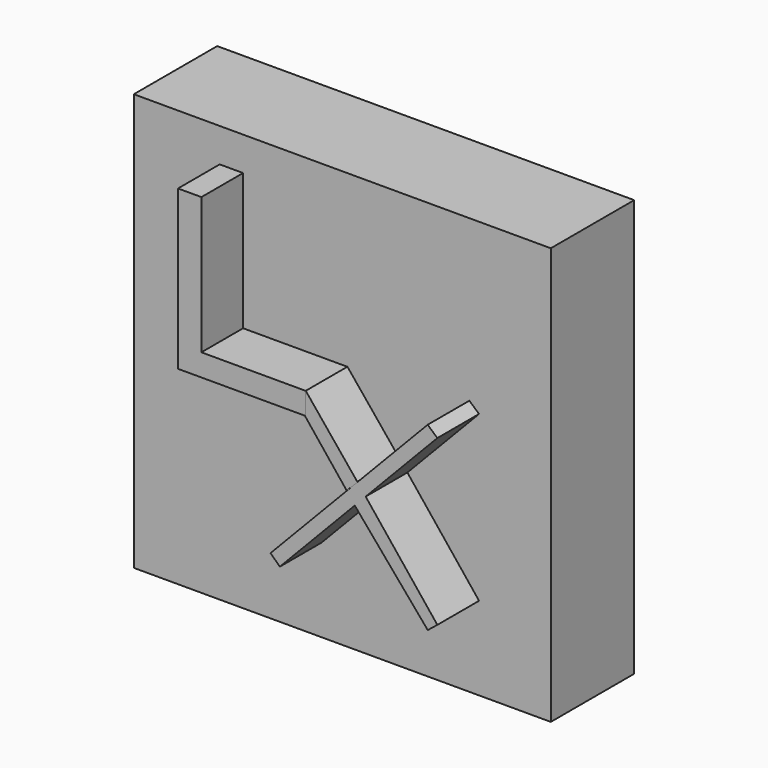
from build123d import *

# Parameters (mm, degrees)
F0_W     = 39.99992
F0_H     = 39.99992
F1_DEPTH = 10
F4_DEPTH = 5
F5_DEPTH = 5
F7_DEPTH = 5


with BuildPart() as f1:
    # F0 (on Front) → F1 (new body)
    with BuildSketch(Plane.XZ):
        with Locations((-19.99996, -4.587722)):
            Rectangle(F0_W, F0_H)
    extrude(amount=F1_DEPTH)

    # F2 (on face) → F4 (join)
    with BuildSketch(Plane.XZ.offset(10)):
        Polygon((-29.516464, 12.166237), (-31.761777, 12.166237), (-31.761777, -3.065485), (-19.50358, -3.065485), (-19.50358, -0.941539), (-29.516464, -0.941539), align=None)
    extrude(amount=F4_DEPTH)

    # F3 (on face) → F5 (join)
    with BuildSketch(Plane.XZ.offset(10)):
        Polygon((-7.812001, 0), (-14.53975, -7.024959), (-13.758637, -8.00135), (-6.881277, -0.820171), align=None)
        Polygon((-13.758637, -8.00135), (-14.53975, -7.024959), (-15.610237, -8.142737), (-14.803926, -9.092817), align=None)
        Polygon((-6.881277, -16.59805), (-13.758637, -8.00135), (-14.803926, -9.092817), (-7.80634, -17.3381), align=None)
        Polygon((-14.803926, -9.092817), (-15.610237, -8.142737), (-22.886798, -15.740753), (-21.991629, -16.59805), align=None)
    extrude(amount=F5_DEPTH)


with BuildPart() as f7:
    # F6 (on face) → F7 (new body)
    with BuildSketch(Plane.XZ.offset(10)):
        Polygon((-14.506066, -7.001007), (-14.566511, -7.001007), (-19.507125, -0.934796), (-19.507809, -3.076034), (-19.586561, -3.076034), (-15.576883, -8.088133), align=None)
    extrude(amount=F7_DEPTH)


solid = Compound([f1.part, f7.part])
